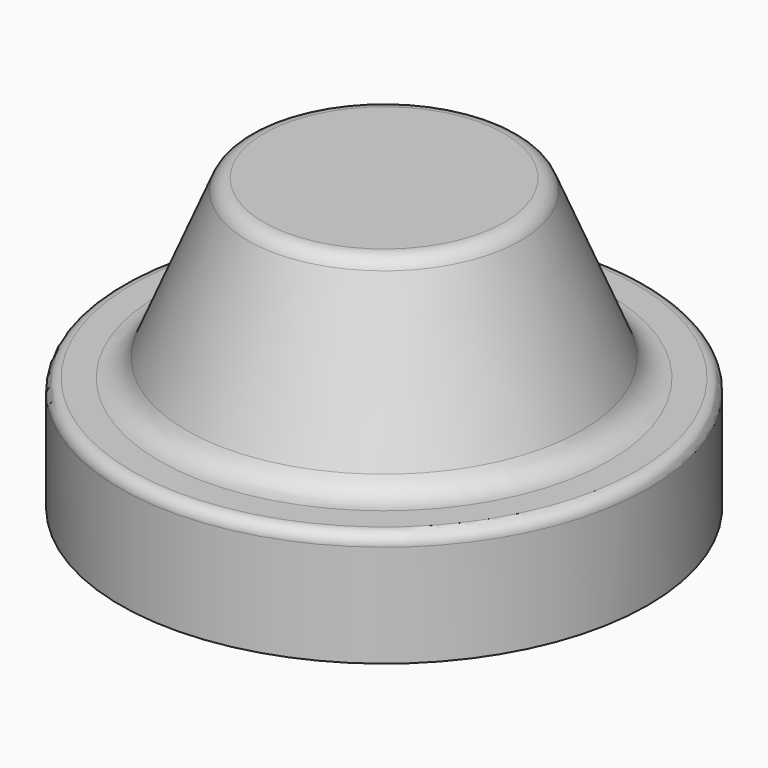
from build123d import *


with BuildPart() as f1:
    # F0 (on Front) → F1 (revolve)
    with BuildSketch(Plane.XZ):
        with BuildLine():
            Line((20.5, 49.475063), (0, 49.475063))
            Line((0, 49.475063), (0, 0))
            Line((0, 0), (45, 0))
            Line((45, 0), (45, 17.475063))
            ThreePointArc((45, 17.475063), (44.414214, 18.889276), (43, 19.475063))
            Line((43, 19.475063), (38.333333, 19.475063))
            ThreePointArc((38.333333, 19.475063), (35.559832, 20.314811), (33.717949, 22.551986))
            Line((33.717949, 22.551986), (23.269231, 47.628909))
            ThreePointArc((23.269231, 47.628909), (22.164101, 48.971214), (20.5, 49.475063))
        make_face()
    revolve(axis=Axis((0, 0, 16.925779), (0, 0, -1)))


solid = f1.part
